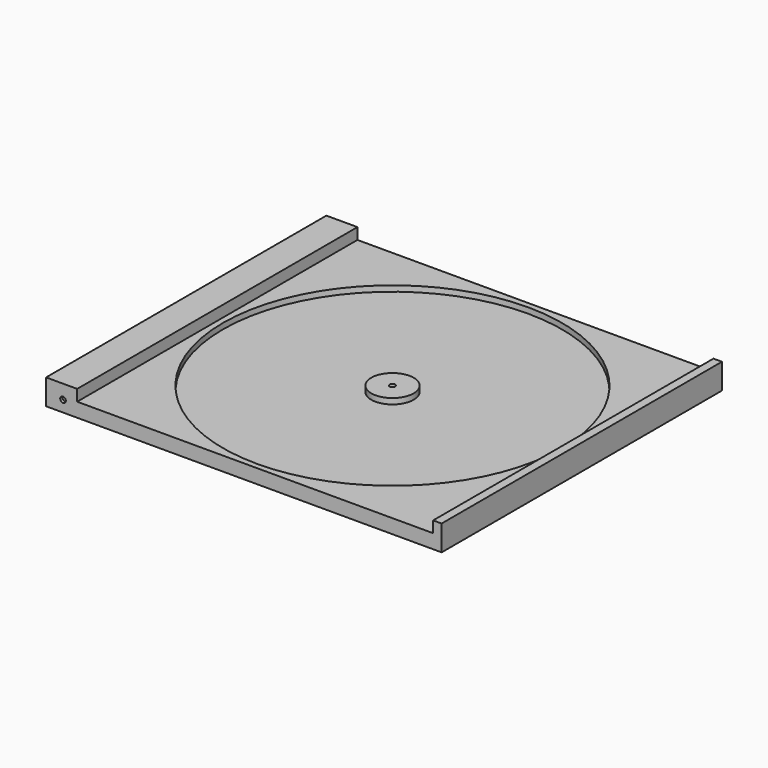
from build123d import *

# Parameters (mm, degrees)
F0_W      = 140
F0_H      = 124
F1_DEPTH  = 5
F2_W      = 11
F2_H      = 124
F2_W_2    = 3
F3_DEPTH  = 4
F5_DEPTH  = 2
F6_DEPTH  = 2
F7_R      = 1
F8_DEPTH  = 1
F9_R      = 1
F10_DEPTH = 1


with BuildPart() as f1:
    # F0 (on Top) → F1 (new body)
    with BuildSketch(Plane.XY):
        Rectangle(F0_W, F0_H)
    extrude(amount=-F1_DEPTH)

    # F2 (on face) → F3 (join)
    with BuildSketch(Plane.XY):
        with Locations((-64.5, 0)):
            Rectangle(F2_W, F2_H)
        with Locations((68.5, 0)):
            Rectangle(F2_W_2, F2_H)
    extrude(amount=F3_DEPTH)

    # F4 (on face) → F5 (cut)
    with BuildSketch(Plane.XY):
        with BuildLine():
            ThreePointArc((3, 7.5), (8.3033008589, 5.3033008589), (10.5, 0))
            Line((10.5, 0), (63, 0))
            ThreePointArc((63, 0), (45.4264068712, 42.4264068712), (3, 60))
            Line((3, 60), (3, 7.5))
        make_face()
        with BuildLine():
            Line((63, 0), (10.5, 0))
            ThreePointArc((10.5, 0), (8.3033008589, -5.3033008589), (3, -7.5))
            Line((3, -7.5), (3, -60))
            ThreePointArc((3, -60), (45.4264068712, -42.4264068712), (63, 0))
        make_face()
        with BuildLine():
            ThreePointArc((-4.5, 0), (-2.3033008589, 5.3033008589), (3, 7.5))
            Line((3, 7.5), (3, 60))
            ThreePointArc((3, 60), (-39.4264068712, 42.4264068712), (-57, 0))
            Line((-57, 0), (-4.5, 0))
        make_face()
        with BuildLine():
            Line((3, -60), (3, -7.5))
            ThreePointArc((3, -7.5), (-2.3033008589, -5.3033008589), (-4.5, 0))
            Line((-4.5, 0), (-57, 0))
            ThreePointArc((-57, 0), (-39.4264068712, -42.4264068712), (3, -60))
        make_face()
    extrude(amount=-F5_DEPTH, mode=Mode.SUBTRACT)

    # F4 (on face) → F6 (cut)
    with BuildSketch(Plane.XY):
        with BuildLine():
            ThreePointArc((3, -1), (3.7071067812, -0.7071067812), (4, 0))
            Line((4, 0), (3, 0))
            Line((3, 0), (3, -1))
        make_face()
        with BuildLine():
            Line((3, -1), (3, 0))
            Line((3, 0), (2, 0))
            ThreePointArc((2, 0), (2.2928932188, -0.7071067812), (3, -1))
        make_face()
        with BuildLine():
            Line((2, 0), (3, 0))
            Line((3, 0), (3, 1))
            ThreePointArc((3, 1), (2.2928932188, 0.7071067812), (2, 0))
        make_face()
        with BuildLine():
            Line((3, 0), (4, 0))
            ThreePointArc((4, 0), (3.7071067812, 0.7071067812), (3, 1))
            Line((3, 1), (3, 0))
        make_face()
    extrude(amount=-F6_DEPTH, mode=Mode.SUBTRACT)

    # F7 (on face) → F8 (cut)
    with BuildSketch(Plane(origin=(0, 62, 0), x_dir=(-1, 0, 0), z_dir=(0, 1, 0))):
        with Locations((64, -1)):
            Circle(F7_R)
    extrude(amount=-F8_DEPTH, mode=Mode.SUBTRACT)

    # F9 (on face) → F10 (cut)
    with BuildSketch(Plane.XZ.offset(62)):
        with Locations((-64, -1)):
            Circle(F9_R)
    extrude(amount=-F10_DEPTH, mode=Mode.SUBTRACT)


solid = f1.part
